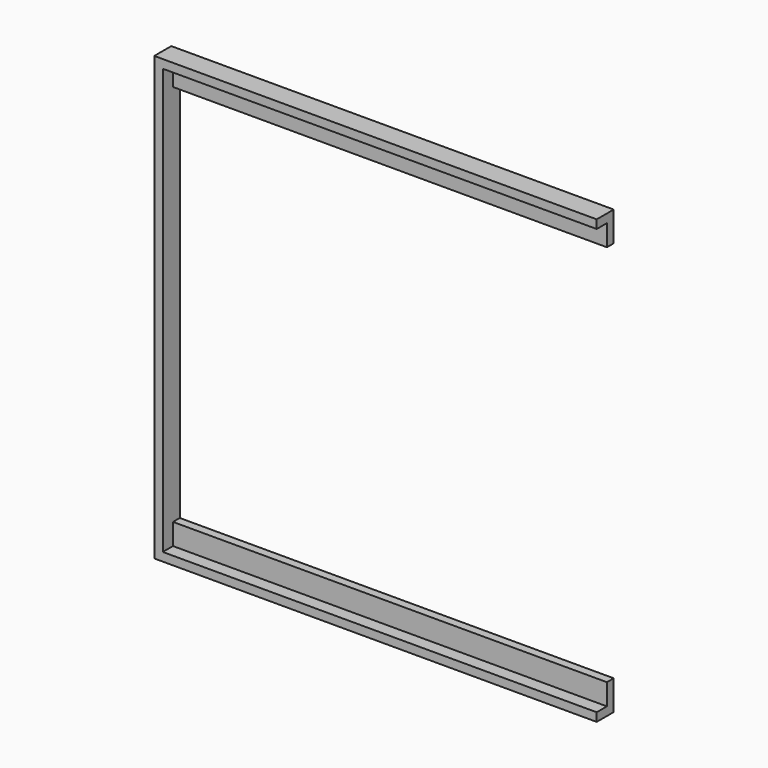
from build123d import *

# Parameters (mm, degrees)
F0_W      = 104
F0_H      = 104
F1_DEPTH  = 2
F2_W      = 104
F2_H      = 2
F3_DEPTH  = 3
F4_W      = 2
F4_H      = 102
F5_DEPTH  = 3
F6_W      = 102
F6_H      = 2
F7_DEPTH  = 3
F10_W     = 102
F10_H     = 90
F11_DEPTH = 25


with BuildPart() as f1:
    # F0 (on Front) → F1 (new body)
    with BuildSketch(Plane.XZ):
        Rectangle(F0_W, F0_H)
    extrude(amount=F1_DEPTH)

    # F2 (on face) → F3 (join)
    with BuildSketch(Plane.XZ.offset(2)):
        with Locations((0, 51)):
            Rectangle(F2_W, F2_H)
    extrude(amount=F3_DEPTH)

    # F4 (on face) → F5 (join)
    with BuildSketch(Plane.XZ.offset(2)):
        with Locations((-51, -1)):
            Rectangle(F4_W, F4_H)
    extrude(amount=F5_DEPTH)

    # F6 (on face) → F7 (join)
    with BuildSketch(Plane.XZ.offset(2)):
        with Locations((1, -51)):
            Rectangle(F6_W, F6_H)
    extrude(amount=F7_DEPTH)

    # F10 (on face) → F11 (cut)
    with BuildSketch(Plane.XZ.offset(2)):
        with Locations((1, 0)):
            Rectangle(F10_W, F10_H)
    extrude(amount=-F11_DEPTH, mode=Mode.SUBTRACT)


solid = f1.part
